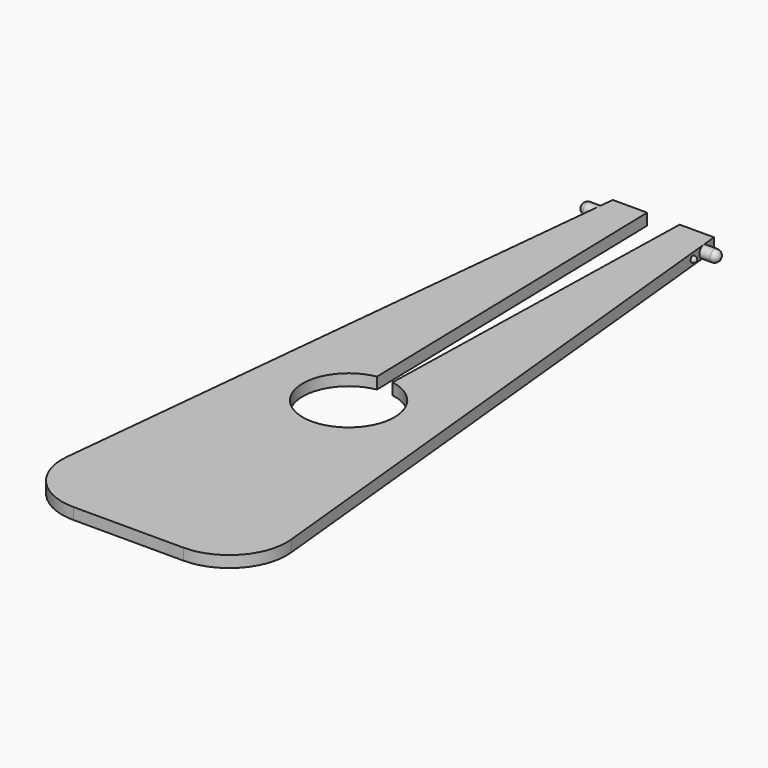
from build123d import *

# Parameters (mm, degrees)
F1_DEPTH = 3
F4_DEPTH = 4.85
F3_R     = 0.775
F5_DEPTH = 1.8
F6_R     = 1.5
F7_R     = 0.775


with BuildPart() as f1:
    # F0 (on Top) → F1 (new body)
    with BuildSketch(Plane.XY):
        with BuildLine():
            Line((-14.4016106971, 0), (0, 0))
            Line((0, 0), (14.4016106971, 0))
            ThreePointArc((14.4016106971, 0), (25.530513069, 4.9427870661), (29.3250428137, 16.5136624004))
            Line((29.3250428137, 16.5136624004), (13.25, 175))
            Line((13.25, 175), (4.25, 175))
            Line((4.25, 175), (2.0357756631, 83.826056716))
            ThreePointArc((2.0357756631, 83.826056716), (11.9564350998, 70.9784033555), (0, 60))
            ThreePointArc((0, 60), (-11.9564350998, 70.9784033555), (-2.0357756631, 83.826056716))
            Line((-2.0357756631, 83.826056716), (-4.25, 175))
            Line((-4.25, 175), (-13.25, 175))
            Line((-13.25, 175), (-29.3250428137, 16.5136624004))
            ThreePointArc((-29.3250428137, 16.5136624004), (-25.530513069, 4.9427870661), (-14.4016106971, 0))
        make_face()
    extrude(amount=F1_DEPTH)

    # F3 (on offset) → F4 (join)
    with BuildSketch(Plane.YZ.offset(13.25)):
        with BuildLine():
            ThreePointArc((171.0013200045, 0), (172.0619801762, 0.4393398282), (172.5013200045, 1.5))
            ThreePointArc((172.5013200045, 1.5), (169.9406598327, 2.5606601718), (171.0013200045, 0))
        make_face()
    extrude(amount=F4_DEPTH)

    # F3 (on offset) → F5 (join)
    with BuildSketch(Plane.YZ.offset(13.25)):
        with Locations((167.0013200045, 1.5)):
            Circle(F3_R)
    extrude(amount=F5_DEPTH)

    # F6
    f6_edges = [f1.edges().sort_by_distance(p)[0] for p in [
        (18.1, 171.00132, 3),
    ]]
    fillet(f6_edges, radius=F6_R)

    # F7
    f7_edges = [f1.edges().sort_by_distance(p)[0] for p in [
        (15.05, 166.22632, 1.5),
    ]]
    fillet(f7_edges, radius=F7_R)

    # F8: F1 across plane


with BuildPart() as f1_1:
    add(f1.part)
    add(f1.part.mirror(Plane.YZ))


solid = f1_1.part
